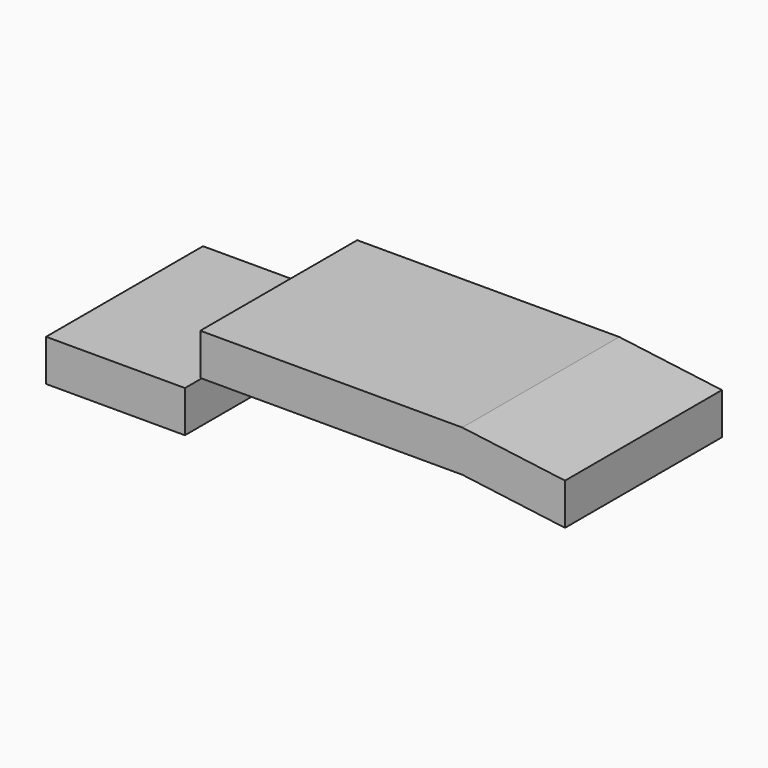
from build123d import *

# Parameters (mm, degrees)
F0_W     = 17.7
F0_H     = 5.3
F1_DEPTH = 12.5
F0_W_2   = 9.1
F0_W_3   = 24.3
F2_DEPTH = 12.5
F3_DEPTH = 12.5


with BuildPart() as f1:
    # F0 (on Front) → F1 (new body, symmetric)
    with BuildSketch(Plane.XZ):
        with Locations((-15.26235, -7.068884)):
            Rectangle(F0_W, F0_H)
    extrude(amount=F1_DEPTH, both=True)


with BuildPart() as f2:
    # F0 (on Front) → F2 (new body, symmetric)
    with BuildSketch(Plane.XZ):
        with Locations((0.092667, 0)):
            Rectangle(F0_W_2, F0_H)
        with Locations((16.792667, 0)):
            Rectangle(F0_W_3, F0_H)
    extrude(amount=F2_DEPTH, both=True)

    # F0 (on Front) → F3 (join, symmetric)
    with BuildSketch(Plane.XZ):
        with Locations((16.792667, 0)):
            Rectangle(F0_W_3, F0_H)
        Polygon((28.942667, 2.65), (28.942667, -2.65), (42.032429, -4.352393), (42.032429, -1.352393), (42.032429, 0.947607), align=None)
    extrude(amount=F3_DEPTH, both=True)


solid = Compound([f1.part, f2.part])
